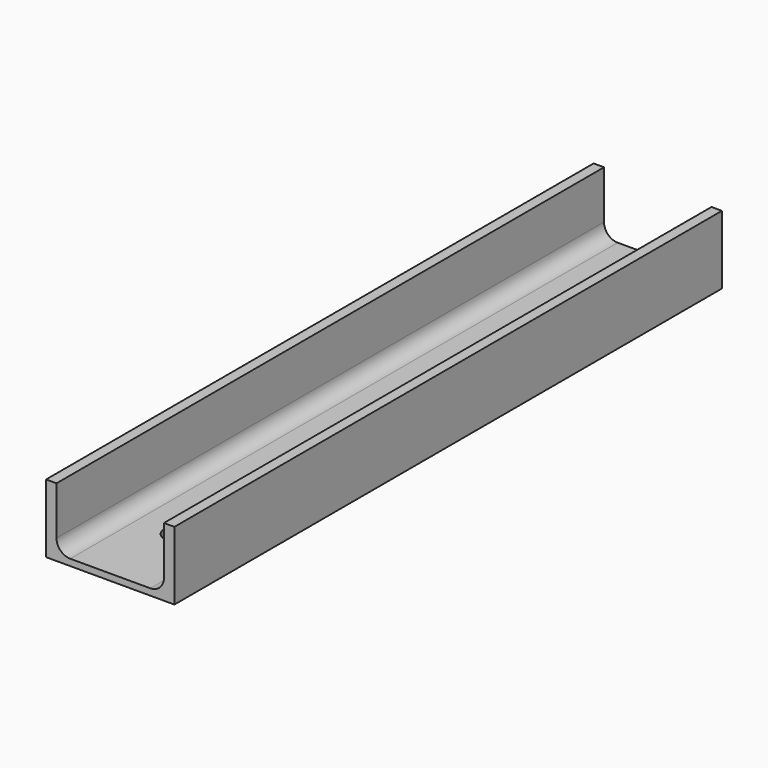
from build123d import *

# Parameters (mm, degrees)
F1_DEPTH = 400
F3_D     = 16.5


with BuildPart() as f1:
    # F0 (on Front) → F1 (new body)
    with BuildSketch(Plane.XZ):
        with BuildLine():
            Line((-37.5, 0), (0, 0))
            Line((0, 0), (37.5, 0))
            Line((37.5, 0), (37.5, 40))
            Line((37.5, 40), (31.4, 40))
            Line((31.4, 40), (31.4, 11.8))
            ThreePointArc((31.4, 11.8), (29.0568542495, 6.1431457505), (23.4, 3.8))
            Line((23.4, 3.8), (0, 3.8))
            Line((0, 3.8), (-23.4, 3.8))
            ThreePointArc((-23.4, 3.8), (-29.0568542495, 6.1431457505), (-31.4, 11.8))
            Line((-31.4, 11.8), (-31.4, 40))
            Line((-31.4, 40), (-37.5, 40))
            Line((-37.5, 40), (-37.5, 0))
        make_face()
    extrude(amount=F1_DEPTH)

    # F3 (through all)
    with Locations(Plane(origin=(0, 0, 0), x_dir=(1, 0, 0), z_dir=(0, 0, -1))):
        with Locations((0, 50), (0, 350)):
            Hole(F3_D / 2)


solid = f1.part
